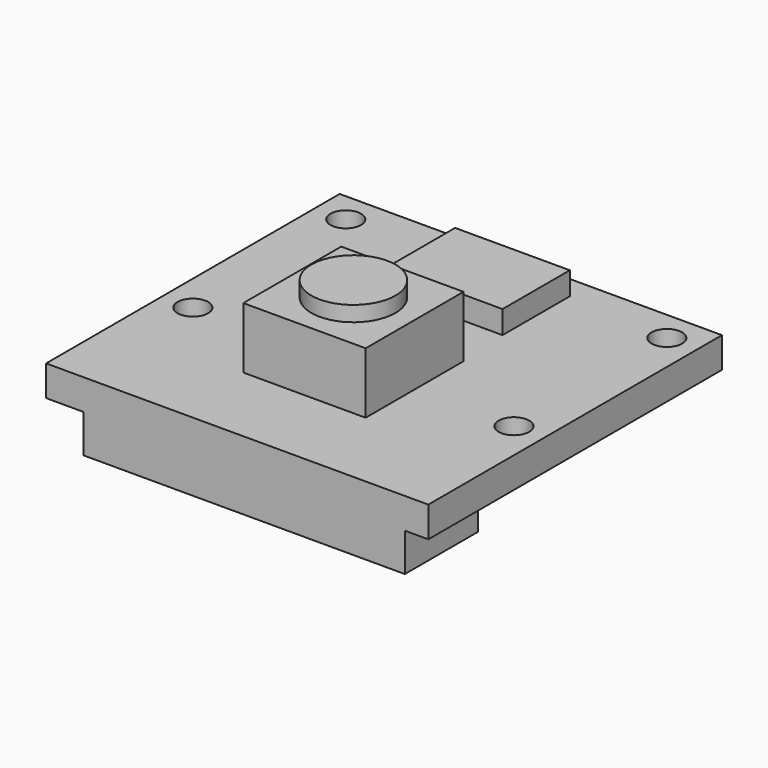
from build123d import *

# Parameters (mm, degrees)
F0_R     = 1
F0_W     = 7.5
F0_H     = 5.5
F0_W_2   = 8
F0_H_2   = 7.5
F0_R_2   = 2.75
F0_H_3   = 0.5
F1_DEPTH = 1
F2_DEPTH = 3.5
F3_DEPTH = 5
F4_DEPTH = 6
F5_DEPTH = 2.5


with BuildPart() as f1:
    # F0 (on Top) → F1 (new body, symmetric)
    with BuildSketch(Plane.XY):
        Polygon((-10.037144646, -6), (-10.037144646, -12), (10.962855354, -12), (10.962855354, -6), (4, -6), (4, -6.5), (-4, -6.5), (-4, -6), align=None)
        Polygon((12.5, 12), (-12.5, 12), (-12.5, -12), (-10.037144646, -12), (-10.037144646, -6), (-4, -6), (-4, 1.5), (4, 1.5), (4, -6), (10.962855354, -6), (10.962855354, -12), (12.5, -12), align=None)
        with Locations((-10.5, -2.5)):
            Circle(F0_R, mode=Mode.SUBTRACT)
        with Locations((10.5, -2.5)):
            Circle(F0_R, mode=Mode.SUBTRACT)
        with Locations((-10.5, 10)):
            Circle(F0_R, mode=Mode.SUBTRACT)
        with Locations((0, 7.75)):
            Rectangle(F0_W, F0_H, mode=Mode.SUBTRACT)
        with Locations((10.5, 10)):
            Circle(F0_R, mode=Mode.SUBTRACT)
        with Locations((0, 7.75)):
            Rectangle(F0_W, F0_H)
        with Locations((0, -2.25)):
            Rectangle(F0_W_2, F0_H_2)
        with Locations((0, -2.5)):
            Circle(F0_R_2, mode=Mode.SUBTRACT)
        with Locations((0, -2.5)):
            Circle(F0_R_2)
        with Locations((0, -6.25)):
            Rectangle(F0_W_2, F0_H_3)
    extrude(amount=F1_DEPTH, both=True)

    # F0 (on Top) → F2 (join)
    with BuildSketch(Plane.XY):
        Polygon((-10.037144646, -6), (-10.037144646, -12), (10.962855354, -12), (10.962855354, -6), (4, -6), (4, -6.5), (-4, -6.5), (-4, -6), align=None)
        with Locations((0, -6.25)):
            Rectangle(F0_W_2, F0_H_3)
    extrude(amount=-F2_DEPTH)

    # F0 (on Top) → F3 (join)
    with BuildSketch(Plane.XY):
        with Locations((0, -2.25)):
            Rectangle(F0_W_2, F0_H_2)
        with Locations((0, -2.5)):
            Circle(F0_R_2, mode=Mode.SUBTRACT)
        with Locations((0, -2.5)):
            Circle(F0_R_2)
        with Locations((0, -6.25)):
            Rectangle(F0_W_2, F0_H_3)
    extrude(amount=F3_DEPTH)

    # F0 (on Top) → F4 (join)
    with BuildSketch(Plane.XY):
        with Locations((0, -2.5)):
            Circle(F0_R_2)
    extrude(amount=F4_DEPTH)

    # F0 (on Top) → F5 (join)
    with BuildSketch(Plane.XY):
        with Locations((0, 7.75)):
            Rectangle(F0_W, F0_H)
    extrude(amount=F5_DEPTH)


solid = f1.part
